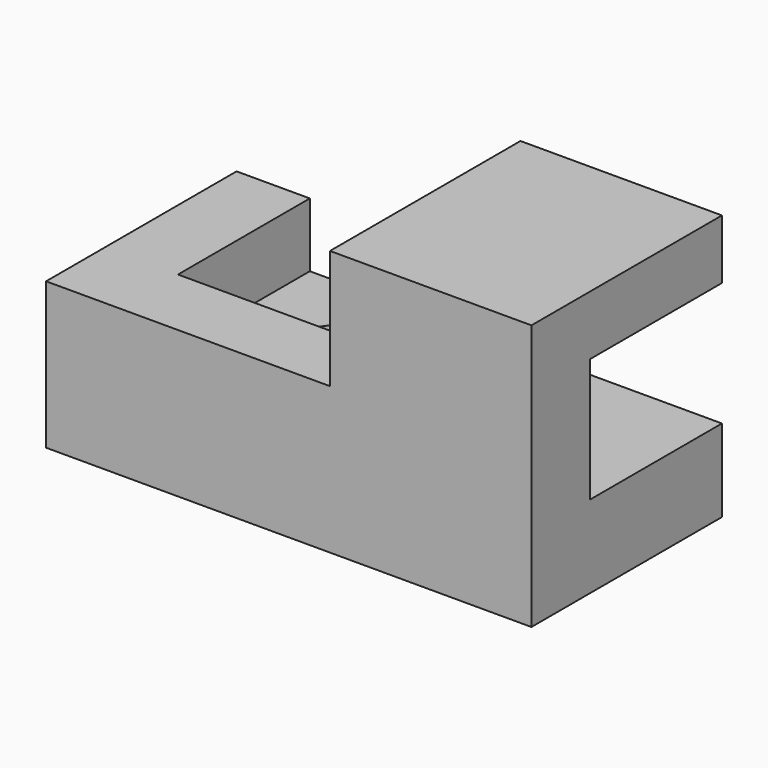
from build123d import *

# Parameters (mm, degrees)
F0_W     = 106
F0_H     = 58
F1_DEPTH = 52
F2_W     = 62
F2_H     = 26
F3_DEPTH = 52.001
F4_W     = 36
F4_H     = 27
F5_DEPTH = 90
F7_DEPTH = 18


with BuildPart() as f1:
    # F0 (on Front) → F1 (new body)
    with BuildSketch(Plane.XZ):
        with Locations((53, 29)):
            Rectangle(F0_W, F0_H)
    extrude(amount=F1_DEPTH)

    # F2 (on face) → F3 (cut, through all)
    with BuildSketch(Plane.XZ.offset(52)):
        with Locations((31, 45)):
            Rectangle(F2_W, F2_H)
    extrude(amount=-F3_DEPTH, mode=Mode.SUBTRACT)

    # F4 (on face) → F5 (cut)
    with BuildSketch(Plane.YZ.offset(106)):
        with Locations((-18, 31.5)):
            Rectangle(F4_W, F4_H)
    extrude(amount=-F5_DEPTH, mode=Mode.SUBTRACT)

    # F6 (on face) → F7 (cut)
    with BuildSketch(Plane(origin=(0, 0, 0), x_dir=(1, 0, 0), z_dir=(0, 0, -1))):
        with BuildLine():
            ThreePointArc((82, 27), (76.343146, 13.343146), (90, 19))
            Line((90, 19), (82, 19))
            Line((82, 19), (82, 27))
        make_face()
        with BuildLine():
            Line((82, 19), (90, 19))
            ThreePointArc((90, 19), (87.656854, 24.656854), (82, 27))
            Line((82, 27), (82, 19))
        make_face()
        with BuildLine():
            ThreePointArc((45, 19), (42.656854, 24.656854), (37, 27))
            ThreePointArc((37, 27), (31.343146, 13.343146), (45, 19))
        make_face()
    extrude(amount=-F7_DEPTH, mode=Mode.SUBTRACT)


solid = f1.part
